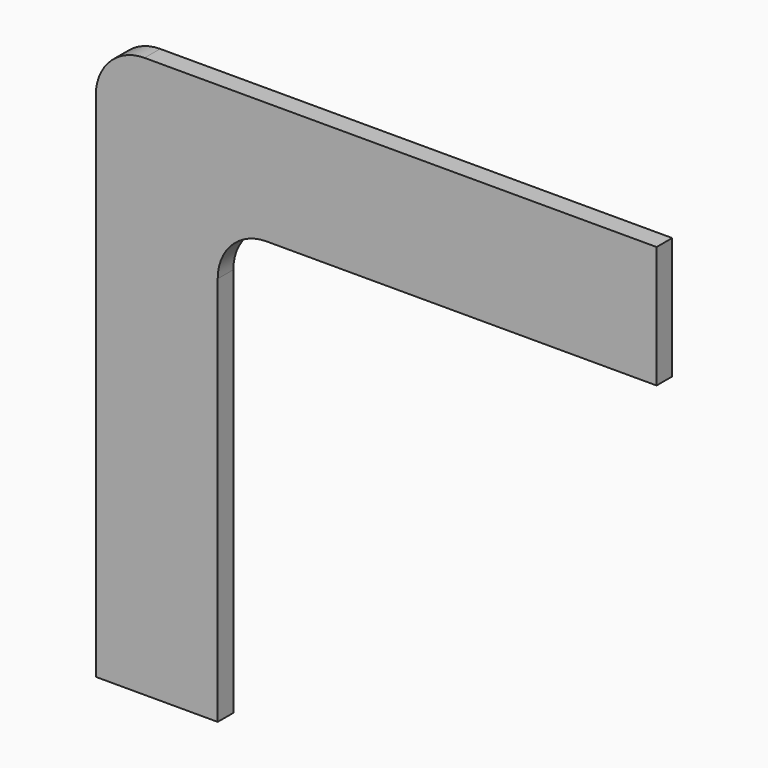
from build123d import *

# Parameters (mm, degrees)
F1_DEPTH = 2
F2_R     = 5
F3_R     = 2.5
F4_DEPTH = 3


with BuildPart() as f1:
    # F0 (on Front) → F1 (new body)
    with BuildSketch(Plane.XZ):
        Polygon((45, 12.5), (-12.5, 12.5), (-12.5, -45), (0, -45), (0, 0), (45, 0), align=None)
    extrude(amount=F1_DEPTH)

    # F2
    f2_edges = [f1.edges().sort_by_distance(p)[0] for p in [
        (-12.5, -1, 12.5),
        (0, -1, 0),
    ]]
    fillet(f2_edges, radius=F2_R)

    # F3 (on Front) → F4 (join)
    with BuildSketch(Plane.XZ):
        with Locations((24.5, 5.5)):
            Circle(F3_R)
        with Locations((-5.5, -24.5)):
            Circle(F3_R)
    extrude(amount=-F4_DEPTH)


solid = f1.part
